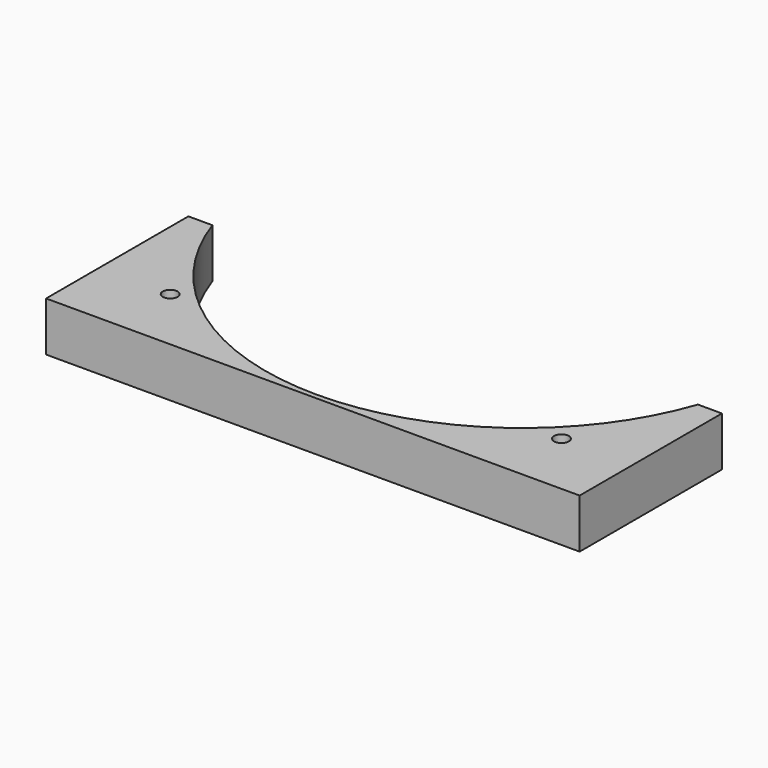
from build123d import *

# Parameters (mm, degrees)
CYLINDER875_R               = 1.5
CYLINDER875_DEPTH           = 20
CYLINDER875_PLACEMENT_ANGLE = 45
CYLINDER866_R               = 1.5
CYLINDER866_DEPTH           = 20
CYLINDER869_R               = 1.5
CYLINDER869_DEPTH           = 20
CYLINDER869_PLACEMENT_ANGLE = 135
CYLINDER372_R               = 1.5
CYLINDER372_DEPTH           = 20
CYLINDER377_R               = 1.5
CYLINDER377_DEPTH           = 20
CYLINDER377_PLACEMENT_ANGLE = 225
CYLINDER876_R               = 1.5
CYLINDER876_DEPTH           = 20
CYLINDER873_R               = 1.5
CYLINDER873_DEPTH           = 20
CYLINDER873_PLACEMENT_ANGLE = 45
CYLINDER874_R               = 1.5
CYLINDER874_DEPTH           = 20
CYLINDER867_R               = 52
CYLINDER867_DEPTH           = 10
BOX134_W                    = 108
BOX134_H                    = 36
BOX134_DEPTH                = 10


with BuildPart() as obj1:
    # Cylinder875 → Cylinder875 (new body)
    with BuildSketch(Plane.XY):
        Circle(CYLINDER875_R)
    extrude(amount=CYLINDER875_DEPTH)


with BuildPart() as obj1_1:
    # Cylinder875 placement: moved
    add(obj1.part.moved(Location((39.59798, -39.59798, 2))).rotate(Axis((39.59798, -39.59798, 2), (0, 0, 1)), CYLINDER875_PLACEMENT_ANGLE))


with BuildPart() as obj2:
    # Cylinder866 → Cylinder866 (new body)
    with BuildSketch(Plane(origin=(56, 0, 2), x_dir=(0, 1, 0), z_dir=(0, 0, 1))):
        Circle(CYLINDER866_R)
    extrude(amount=CYLINDER866_DEPTH)


with BuildPart() as obj3:
    # Cylinder869 → Cylinder869 (new body)
    with BuildSketch(Plane.XY):
        Circle(CYLINDER869_R)
    extrude(amount=CYLINDER869_DEPTH)


with BuildPart() as obj3_1:
    # Cylinder869 placement: moved
    add(obj3.part.moved(Location((39.59798, 39.59798, 2))).rotate(Axis((39.59798, 39.59798, 2), (0, 0, 1)), CYLINDER869_PLACEMENT_ANGLE))


with BuildPart() as obj4:
    # Cylinder372 → Cylinder372 (new body)
    with BuildSketch(Plane(origin=(0, 56, 2), x_dir=(-1, 0, 0), z_dir=(0, 0, 1))):
        Circle(CYLINDER372_R)
    extrude(amount=CYLINDER372_DEPTH)


with BuildPart() as obj5:
    # Cylinder377 → Cylinder377 (new body)
    with BuildSketch(Plane.XY):
        Circle(CYLINDER377_R)
    extrude(amount=CYLINDER377_DEPTH)


with BuildPart() as obj5_1:
    # Cylinder377 placement: moved
    add(obj5.part.moved(Location((-39.59798, 39.59798, 2))).rotate(Axis((-39.59798, 39.59798, 2), (0, 0, 1)), CYLINDER377_PLACEMENT_ANGLE))


with BuildPart() as obj6:
    # Cylinder876 → Cylinder876 (new body)
    with BuildSketch(Plane(origin=(-56, 0, 2), x_dir=(0, -1, 0), z_dir=(0, 0, 1))):
        Circle(CYLINDER876_R)
    extrude(amount=CYLINDER876_DEPTH)


with BuildPart() as obj7:
    # Cylinder873 → Cylinder873 (new body)
    with BuildSketch(Plane.XY):
        Circle(CYLINDER873_R)
    extrude(amount=CYLINDER873_DEPTH)


with BuildPart() as obj7_1:
    # Cylinder873 placement: moved
    add(obj7.part.moved(Location((-39.59798, -39.59798, 2))).rotate(Axis((-39.59798, -39.59798, 2), (0, 0, -1)), CYLINDER873_PLACEMENT_ANGLE))


with BuildPart() as compound262:
    # Cylinder874 → Cylinder874 (new body)
    with BuildSketch(Plane(origin=(0, -56, 2), x_dir=(1, 0, 0), z_dir=(0, 0, 1))):
        Circle(CYLINDER874_R)
    extrude(amount=CYLINDER874_DEPTH)

    # Compound262: union obj1, obj2, obj3, obj4, obj5, obj6, obj7
    add(obj1_1.part)
    add(obj2.part)
    add(obj3_1.part)
    add(obj4.part)
    add(obj5_1.part)
    add(obj6.part)
    add(obj7_1.part)


with BuildPart() as obj8:
    # Cylinder867 → Cylinder867 (new body)
    with BuildSketch(Plane.XY.offset(20)):
        Circle(CYLINDER867_R)
    extrude(amount=CYLINDER867_DEPTH)


with BuildPart() as cut151:
    # Box134 → Box134 (new body)
    with BuildSketch(Plane(origin=(-54, -53, 20), x_dir=(1, 0, 0), z_dir=(0, 0, 1))):
        with Locations((54, 18)):
            Rectangle(BOX134_W, BOX134_H)
    extrude(amount=BOX134_DEPTH)

    # Cut152: cut obj8
    add(obj8.part, mode=Mode.SUBTRACT)


with BuildPart() as cut151_1:
    # Cut152 placement: moved
    add(cut151.part.moved(Location((0, 0, -10))))

    # Cut151: cut Compound262
    add(compound262.part, mode=Mode.SUBTRACT)


solid = cut151_1.part
